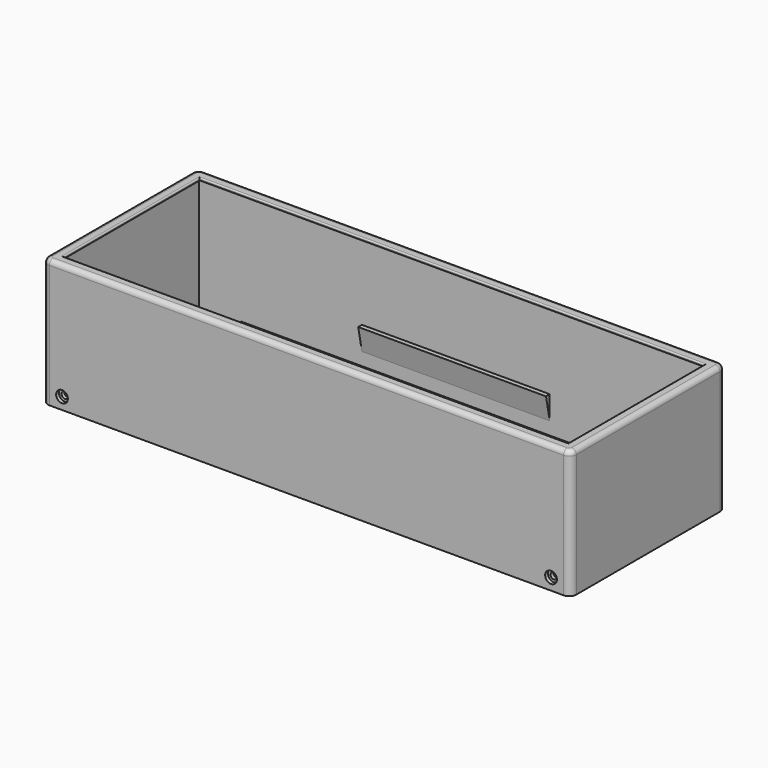
from build123d import *

# Parameters (mm, degrees)
SKETCH_W        = 215
SKETCH_H        = 72.5
PAD_DEPTH       = 1
SKETCH001_W     = 219
SKETCH001_H     = 76.5
PAD001_DEPTH    = 53.5
FILLET_R        = 2
FILLET001_R     = 0.5
PAD007_DEPTH    = 40
PAD008_DEPTH    = 40
PAD009_DEPTH    = 8
PAD010_DEPTH    = 8
SKETCH034_W     = 183
SKETCH034_H     = 3
POCKET011_DEPTH = 1.5
SKETCH035_R     = 2.5
POCKET012_DEPTH = 1.5
SKETCH036_R     = 1.4
SKETCH036_W     = 183
SKETCH036_H     = 3
POCKET013_DEPTH = 5
SKETCH043_W     = 6.5
SKETCH043_H     = 3
POCKET016_DEPTH = 1.5
SKETCH044_W     = 6.5
SKETCH044_H     = 3
POCKET017_DEPTH = 1.5


with BuildPart() as part:
    # Sketch → Pad (new body)
    with BuildSketch(Plane.XY):
        with BuildLine():
            Line((-112.5, 38.25), (-112.5, -38.25))
            ThreePointArc((-109.5, -41.25), (-111.62132, -40.37132), (-112.5, -38.25))
            Line((-109.5, -41.25), (109.5, -41.25))
            ThreePointArc((112.5, -38.25), (111.62132, -40.37132), (109.5, -41.25))
            Line((112.5, -38.25), (112.5, 38.25))
            ThreePointArc((109.5, 41.25), (111.62132, 40.37132), (112.5, 38.25))
            Line((109.5, 41.25), (-109.5, 41.25))
            ThreePointArc((-112.5, 38.25), (-111.62132, 40.37132), (-109.5, 41.25))
        make_face()
        Rectangle(SKETCH_W, SKETCH_H, mode=Mode.SUBTRACT)
    extrude(amount=PAD_DEPTH)

    # Sketch001 (on Face13 of Pad) → Pad001 (join)
    with BuildSketch(Plane(origin=(0, 0, 0), x_dir=(1, 0, 0), z_dir=(0, 0, -1))):
        with BuildLine():
            Line((109.5, 41.25), (-109.5, 41.25))
            ThreePointArc((-112.5, 38.25), (-111.62132, 40.37132), (-109.5, 41.25))
            Line((-112.5, 38.25), (-112.5, -38.25))
            ThreePointArc((-109.5, -41.25), (-111.62132, -40.37132), (-112.5, -38.25))
            Line((-109.5, -41.25), (109.5, -41.25))
            ThreePointArc((112.5, -38.25), (111.62132, -40.37132), (109.5, -41.25))
            Line((112.5, -38.25), (112.5, 38.25))
            ThreePointArc((109.5, 41.25), (111.62132, 40.37132), (112.5, 38.25))
        make_face()
        Rectangle(SKETCH001_W, SKETCH001_H, mode=Mode.SUBTRACT)
    extrude(amount=PAD001_DEPTH)

    # Fillet
    fillet_edges = [part.edges().sort_by_distance(p)[0] for p in [
        (112.5, 0, 1),
        (111.62132, -40.37132, 1),
        (0, -41.25, 1),
        (111.62132, 40.37132, 1),
        (0, 41.25, 1),
        (-111.62132, 40.37132, 1),
        (-112.5, 0, 1),
        (-111.62132, -40.37132, 1),
    ]]
    fillet(fillet_edges, radius=FILLET_R)

    # Fillet001
    fillet001_edges = [part.edges().sort_by_distance(p)[0] for p in [
        (0, -36.25, 1),
        (107.5, 0, 1),
        (0, 36.25, 1),
        (-107.5, 0, 1),
    ]]
    fillet(fillet001_edges, radius=FILLET001_R)

    # Sketch008 (on DatumPlane) → Pad007 (join, symmetric)
    with BuildSketch(Plane(origin=(0, 38.25, 0), x_dir=(0, 0, 1), z_dir=(1, 0, 0))):
        Polygon((-43, 0), (-33, 0), (-33, 2), align=None)
    extrude(amount=PAD007_DEPTH, both=True)

    # Sketch010 (on DatumPlane) → Pad008 (join, symmetric)
    with BuildSketch(Plane(origin=(0, -38.25, 0), x_dir=(0, 0, 1), z_dir=(-1, 0, 0))):
        Polygon((-43, 0), (-33, 0), (-33, 2), align=None)
    extrude(amount=PAD008_DEPTH, both=True)

    # Sketch012 (on DatumPlane) → Pad009 (join, symmetric)
    with BuildSketch(Plane(origin=(-109.5, 0, 0), x_dir=(0, 0, 1), z_dir=(0, 1, 0))):
        Polygon((-43, 0), (-33, 0), (-33, 0.8), align=None)
    extrude(amount=PAD009_DEPTH, both=True)

    # Sketch014 (on DatumPlane) → Pad010 (join, symmetric)
    with BuildSketch(Plane(origin=(109.5, 0, 0), x_dir=(0, 0, 1), z_dir=(0, -1, 0))):
        Polygon((-33, 0), (-43, 0), (-33, 0.8), align=None)
    extrude(amount=PAD010_DEPTH, both=True)

    # Sketch034 (on Face29 of Pad010) → Pocket011 (cut)
    with BuildSketch(Plane.XZ.offset(-38.25)):
        with Locations((0, -50)):
            Rectangle(SKETCH034_W, SKETCH034_H)
    extrude(amount=-POCKET011_DEPTH, mode=Mode.SUBTRACT)

    # Sketch035 (on Face21 of Pocket011) → Pocket012 (cut)
    with BuildSketch(Plane.XZ.offset(41.25)):
        with Locations((104.15, -48.5)):
            Circle(SKETCH035_R)
        with Locations((-104.15, -48.5)):
            Circle(SKETCH035_R)
    extrude(amount=-POCKET012_DEPTH, mode=Mode.SUBTRACT)

    # Sketch036 (on Face35 of Pocket012) → Pocket013 (cut)
    with BuildSketch(Plane.XZ.offset(39.75)):
        with Locations((104.15, -48.5)):
            Circle(SKETCH036_R)
        with Locations((-104.15, -48.5)):
            Circle(SKETCH036_R)
        with Locations((0, -50)):
            Rectangle(SKETCH036_W, SKETCH036_H)
    extrude(amount=-POCKET013_DEPTH, mode=Mode.SUBTRACT)

    # Sketch043 (on Face32 of Pocket013) → Pocket016 (cut)
    with BuildSketch(Plane(origin=(109.5, 0, 0), x_dir=(0, -1, 0), z_dir=(-1, 0, 0))):
        with Locations((0, -50)):
            Rectangle(SKETCH043_W, SKETCH043_H)
    extrude(amount=-POCKET016_DEPTH, mode=Mode.SUBTRACT)

    # Sketch044 (on Face30 of Pocket016) → Pocket017 (cut)
    with BuildSketch(Plane.YZ.offset(-109.5)):
        with Locations((0, -50)):
            Rectangle(SKETCH044_W, SKETCH044_H)
    extrude(amount=-POCKET017_DEPTH, mode=Mode.SUBTRACT)


solid = part.part
